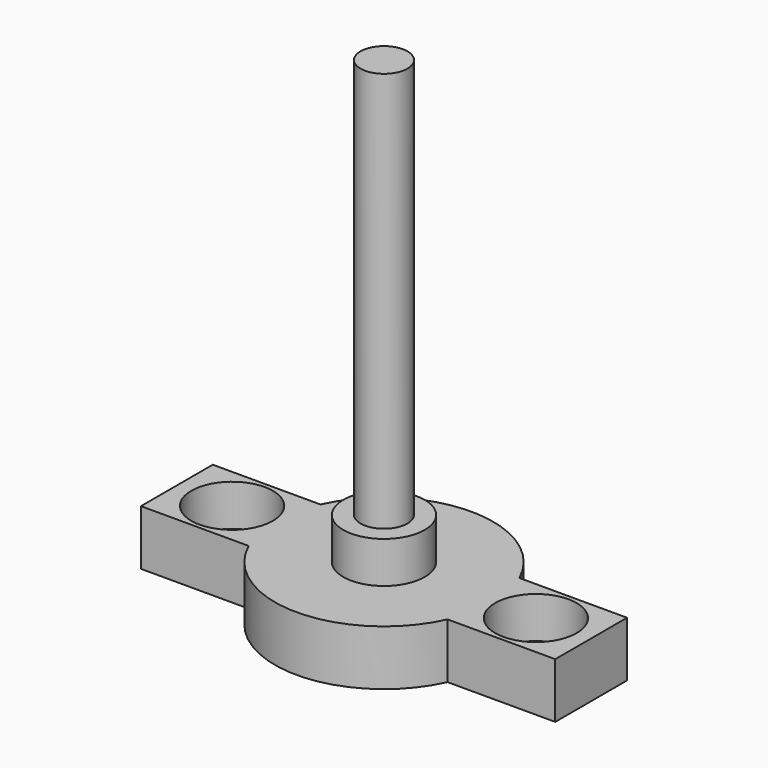
from build123d import *

# Parameters (mm, degrees)
CYLINDER_R               = 2.95
CYLINDER_DEPTH           = 7
CYLINDER001_R            = 1.7
CYLINDER001_DEPTH        = 30
CLONE060_PLACEMENT_ANGLE = 180
CLONE059_PLACEMENT_ANGLE = 180
PAD010_DEPTH             = 4


with BuildPart() as m3bolthead:
    # Cylinder → Cylinder (new body)
    with BuildSketch(Plane.XY):
        Circle(CYLINDER_R)
    extrude(amount=CYLINDER_DEPTH)


with BuildPart() as m3bolt:
    # Cylinder001 → Cylinder001 (new body)
    with BuildSketch(Plane.XY.offset(6)):
        Circle(CYLINDER001_R)
    extrude(amount=CYLINDER001_DEPTH)

    # Fusion: union M3BoltHead
    add(m3bolthead.part)


with BuildPart() as clone_of_m3bolt020:
    # Clone060 base: copy of M3Bolt
    add(m3bolt.part)


with BuildPart() as clone_of_m3bolt020_1:
    # Clone060 placement: moved
    add(clone_of_m3bolt020.part.moved(Location((-11, 0, 8))).rotate(Axis((-11, 0, 8), (0, 1, 0)), CLONE060_PLACEMENT_ANGLE))


with BuildPart() as fusion020:
    # Clone059 base: copy of M3Bolt
    add(m3bolt.part)


with BuildPart() as fusion020_1:
    # Clone059 placement: moved
    add(fusion020.part.moved(Location((11, 0, 8))).rotate(Axis((11, 0, 8), (0, 1, 0)), CLONE059_PLACEMENT_ANGLE))

    # Fusion020: union Clone of M3Bolt020
    add(clone_of_m3bolt020_1.part)


with BuildPart() as obj1:
    # Sketch017 → Pad010 (new body)
    with BuildSketch(Plane.XY):
        with BuildLine():
            ThreePointArc((-7.200521, -3.25), (0, -7.9), (7.200521, -3.25))
            Line((15, -3.25), (7.200521, -3.25))
            Line((15, 3.25), (15, -3.25))
            Line((7.200521, 3.25), (15, 3.25))
            ThreePointArc((7.200521, 3.25), (0, 7.9), (-7.200521, 3.25))
            Line((-15, 3.25), (-7.200521, 3.25))
            Line((-15, -3.25), (-15, 3.25))
            Line((-7.200521, -3.25), (-15, -3.25))
        make_face()
    extrude(amount=PAD010_DEPTH)

    # Cut021: cut Fusion020
    add(fusion020_1.part, mode=Mode.SUBTRACT)


solid = Compound([m3bolt.part, obj1.part])
